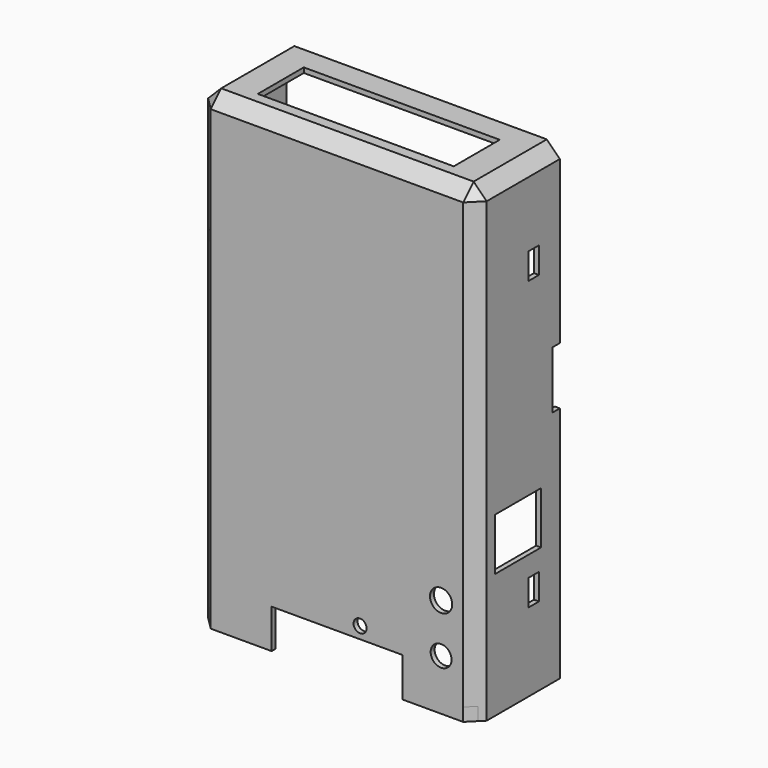
from build123d import *

# Parameters (mm, degrees)
SKETCH_W        = 106.6
SKETCH_H        = 40
PAD_DEPTH       = 180
SKETCH001_W     = 102.8
SKETCH001_H     = 176.2
POCKET_DEPTH    = 38.1
SKETCH002_W     = 102.8
SKETCH002_H     = 1.9
POCKET001_DEPTH = 38.1
SKETCH003_W     = 50
SKETCH003_H     = 15
POCKET002_DEPTH = 5
SKETCH004_W     = 22
SKETCH004_H     = 20
POCKET003_DEPTH = 5
SKETCH005_W     = 75
SKETCH005_H     = 22
POCKET004_DEPTH = 5
SKETCH006_R     = 4
SKETCH006_R_2   = 4.25
POCKET005_DEPTH = 5
CHAMFER_SIZE    = 5
CHAMFER001_SIZE = 5
SKETCH007_W     = 5
SKETCH007_H     = 10
POCKET006_DEPTH = 5
SKETCH008_W     = 5
SKETCH008_H     = 10
POCKET007_DEPTH = 5
SKETCH009_W     = 19.8
SKETCH009_H     = 10
POCKET008_DEPTH = 5
SKETCH010_W     = 40
SKETCH010_H     = 5
PAD001_DEPTH    = 5
CHAMFER002_SIZE = 3.099
CHAMFER003_SIZE = 3
SKETCH011_W     = 40
SKETCH011_H     = 5
PAD002_DEPTH    = 5
CHAMFER004_SIZE = 3.099
CHAMFER005_SIZE = 3
SKETCH012_W     = 3.5
SKETCH012_H     = 22
POCKET009_DEPTH = 5
SKETCH013_W     = 3.5
SKETCH013_H     = 22
POCKET010_DEPTH = 5
SKETCH014_W     = 29
SKETCH014_H     = 50
POCKET011_DEPTH = 5
SKETCH015_W     = 102.8
SKETCH015_H     = 12
POCKET012_DEPTH = 5
SKETCH016_W     = 10
SKETCH016_H     = 12.5
POCKET013_DEPTH = 5
SKETCH017_W     = 40
SKETCH017_H     = 4
PAD003_DEPTH    = 4
CHAMFER006_SIZE = 3.099
CHAMFER007_SIZE = 1.99
SKETCH018_R     = 2.5
POCKET014_DEPTH = 5
SKETCH019_W     = 10
SKETCH019_H     = 8
POCKET015_DEPTH = 5


with BuildPart() as part:
    # Sketch → Pad (new body)
    with BuildSketch(Plane.XY):
        Rectangle(SKETCH_W, SKETCH_H)
    extrude(amount=PAD_DEPTH)

    # Sketch001 (on Face1 of Pad) → Pocket (cut)
    with BuildSketch(Plane(origin=(0, 20, 0), x_dir=(-1, 0, 0), z_dir=(0, 1, 0))):
        with Locations((0, 90)):
            Rectangle(SKETCH001_W, SKETCH001_H)
    extrude(amount=-POCKET_DEPTH, mode=Mode.SUBTRACT)

    # Sketch002 (on Face1 of Pocket) → Pocket001 (cut)
    with BuildSketch(Plane(origin=(0, 20, 0), x_dir=(-1, 0, 0), z_dir=(0, 1, 0))):
        with Locations((0, 0.95)):
            Rectangle(SKETCH002_W, SKETCH002_H)
    extrude(amount=-POCKET001_DEPTH, mode=Mode.SUBTRACT)

    # Sketch003 (on Face11 of Pocket001) → Pocket002 (cut)
    with BuildSketch(Plane.XZ.offset(20)):
        with Locations((0, 7.5)):
            Rectangle(SKETCH003_W, SKETCH003_H)
    extrude(amount=-POCKET002_DEPTH, mode=Mode.SUBTRACT)

    # Sketch004 (on Face9 of Pocket002) → Pocket003 (cut)
    with BuildSketch(Plane.YZ.offset(53.3)):
        with Locations((0, 57.78728)):
            Rectangle(SKETCH004_W, SKETCH004_H)
    extrude(amount=-POCKET003_DEPTH, mode=Mode.SUBTRACT)

    # Sketch005 (on Face10 of Pocket003) → Pocket004 (cut)
    with BuildSketch(Plane.XY.offset(180)):
        Rectangle(SKETCH005_W, SKETCH005_H)
    extrude(amount=-POCKET004_DEPTH, mode=Mode.SUBTRACT)

    # Sketch006 (on Face12 of Pocket004) → Pocket005 (cut)
    with BuildSketch(Plane.XZ.offset(20)):
        with Locations((39.85, 19.5)):
            Circle(SKETCH006_R)
        with Locations((39.85, 38.2)):
            Circle(SKETCH006_R_2)
    extrude(amount=-POCKET005_DEPTH, mode=Mode.SUBTRACT)

    # Chamfer
    chamfer_edges = [part.edges().sort_by_distance(p)[0] for p in [
        (-51.4, -18.1, 90),
        (-51.4, 0.95, 178.1),
        (0, -18.1, 178.1),
        (51.4, -18.1, 90),
        (51.4, 0.95, 178.1),
    ]]
    chamfer(chamfer_edges, length=CHAMFER_SIZE)

    # Chamfer001
    chamfer001_edges = [part.edges().sort_by_distance(p)[0] for p in [
        (53.3, -20, 90),
        (-53.3, -20, 90),
        (0, -20, 180),
        (53.3, 0, 180),
        (-53.3, 0, 180),
    ]]
    chamfer(chamfer001_edges, length=CHAMFER001_SIZE)

    # Sketch007 (on Face9 of Chamfer001) → Pocket006 (cut)
    with BuildSketch(Plane.YZ.offset(53.3)):
        with Locations((7.5, 145)):
            Rectangle(SKETCH007_W, SKETCH007_H)
        with Locations((7.5, 35)):
            Rectangle(SKETCH007_W, SKETCH007_H)
    extrude(amount=-POCKET006_DEPTH, mode=Mode.SUBTRACT)

    # Sketch008 (on Face2 of Pocket006) → Pocket007 (cut)
    with BuildSketch(Plane(origin=(-53.3, 0, 0), x_dir=(0, -1, 0), z_dir=(-1, 0, 0))):
        with Locations((-7.5, 145)):
            Rectangle(SKETCH008_W, SKETCH008_H)
        with Locations((-7.5, 35)):
            Rectangle(SKETCH008_W, SKETCH008_H)
    extrude(amount=-POCKET007_DEPTH, mode=Mode.SUBTRACT)

    # Sketch009 (on Face2 of Pocket007) → Pocket008 (cut)
    with BuildSketch(Plane(origin=(-53.3, 0, 0), x_dir=(0, -1, 0), z_dir=(-1, 0, 0))):
        with Locations((-10.1, 17.5)):
            Rectangle(SKETCH009_W, SKETCH009_H)
    extrude(amount=-POCKET008_DEPTH, mode=Mode.SUBTRACT)

    # Sketch010 (on Face4 of Pocket008) → Pad001 (join)
    with BuildSketch(Plane.YZ.offset(-51.4)):
        with Locations((0, 2.5)):
            Rectangle(SKETCH010_W, SKETCH010_H)
    extrude(amount=PAD001_DEPTH)

    # Chamfer002
    chamfer002_edges = [part.edges().sort_by_distance(p)[0] for p in [
        (-51.4, -20, 2.5),
    ]]
    chamfer(chamfer002_edges, length=CHAMFER002_SIZE)

    # Chamfer003
    chamfer003_edges = [part.edges().sort_by_distance(p)[0] for p in [
        (-46.4, 0.95, 5),
    ]]
    chamfer(chamfer003_edges, length=CHAMFER003_SIZE)

    # Sketch011 (on Face27 of Chamfer003) → Pad002 (join)
    with BuildSketch(Plane(origin=(51.4, 0, 0), x_dir=(0, -1, 0), z_dir=(-1, 0, 0))):
        with Locations((0, 2.5)):
            Rectangle(SKETCH011_W, SKETCH011_H)
    extrude(amount=PAD002_DEPTH)

    # Chamfer004
    chamfer004_edges = [part.edges().sort_by_distance(p)[0] for p in [
        (51.4, -20, 2.5),
    ]]
    chamfer(chamfer004_edges, length=CHAMFER004_SIZE)

    # Chamfer005
    chamfer005_edges = [part.edges().sort_by_distance(p)[0] for p in [
        (46.4, 0.95, 5),
    ]]
    chamfer(chamfer005_edges, length=CHAMFER005_SIZE)

    # Sketch012 (on Face15 of Chamfer005) → Pocket009 (cut)
    with BuildSketch(Plane.YZ.offset(53.3)):
        with Locations((18.25, 102)):
            Rectangle(SKETCH012_W, SKETCH012_H)
    extrude(amount=-POCKET009_DEPTH, mode=Mode.SUBTRACT)

    # Sketch013 (on Face52 of Pocket009) → Pocket010 (cut)
    with BuildSketch(Plane(origin=(-53.3, 0, 0), x_dir=(0, -1, 0), z_dir=(-1, 0, 0))):
        with Locations((-18.25, 102)):
            Rectangle(SKETCH013_W, SKETCH013_H)
    extrude(amount=-POCKET010_DEPTH, mode=Mode.SUBTRACT)

    # Sketch014 (on Face52 of Pocket010) → Pocket011 (cut)
    with BuildSketch(Plane(origin=(-53.3, 0, 0), x_dir=(0, -1, 0), z_dir=(-1, 0, 0))):
        with Locations((-5.5, 101)):
            Rectangle(SKETCH014_W, SKETCH014_H)
    extrude(amount=-POCKET011_DEPTH, mode=Mode.SUBTRACT)

    # Sketch015 (on Face6 of Pocket011) → Pocket012 (cut)
    with BuildSketch(Plane(origin=(0, 0, 0), x_dir=(1, 0, 0), z_dir=(0, 0, -1))):
        with Locations((0, -14)):
            Rectangle(SKETCH015_W, SKETCH015_H)
    extrude(amount=-POCKET012_DEPTH, mode=Mode.SUBTRACT)

    # Sketch016 (on Face37 of Pocket012) → Pocket013 (cut)
    with BuildSketch(Plane(origin=(-53.3, 0, 0), x_dir=(0, -1, 0), z_dir=(-1, 0, 0))):
        with Locations((-15, 6.25)):
            Rectangle(SKETCH016_W, SKETCH016_H)
    extrude(amount=-POCKET013_DEPTH, mode=Mode.SUBTRACT)

    # Sketch017 (on Face32 of Pocket013) → Pad003 (join)
    with BuildSketch(Plane.YZ.offset(-51.4)):
        with Locations((0, 71)):
            Rectangle(SKETCH017_W, SKETCH017_H)
        with Locations((0, 131)):
            Rectangle(SKETCH017_W, SKETCH017_H)
    extrude(amount=PAD003_DEPTH)

    # Chamfer006
    chamfer006_edges = [part.edges().sort_by_distance(p)[0] for p in [
        (-51.4, -20, 131),
        (-51.4, -20, 71),
    ]]
    chamfer(chamfer006_edges, length=CHAMFER006_SIZE)

    # Chamfer007
    chamfer007_edges = [part.edges().sort_by_distance(p)[0] for p in [
        (-47.4, 1.45, 129),
        (-47.4, 1.45, 133),
        (-47.4, 1.45, 73),
        (-47.4, 1.45, 69),
    ]]
    chamfer(chamfer007_edges, length=CHAMFER007_SIZE)

    # Sketch018 (on Face66 of Chamfer007) → Pocket014 (cut)
    with BuildSketch(Plane.XZ.offset(20)):
        with Locations((8.85, 19.5)):
            Circle(SKETCH018_R)
    extrude(amount=-POCKET014_DEPTH, mode=Mode.SUBTRACT)

    # Sketch019 (on Face8 of Pocket014) → Pocket015 (cut)
    with BuildSketch(Plane.YZ.offset(-51.4)):
        with Locations((15, 72)):
            Rectangle(SKETCH019_W, SKETCH019_H)
    extrude(amount=POCKET015_DEPTH, mode=Mode.SUBTRACT)


solid = part.part
